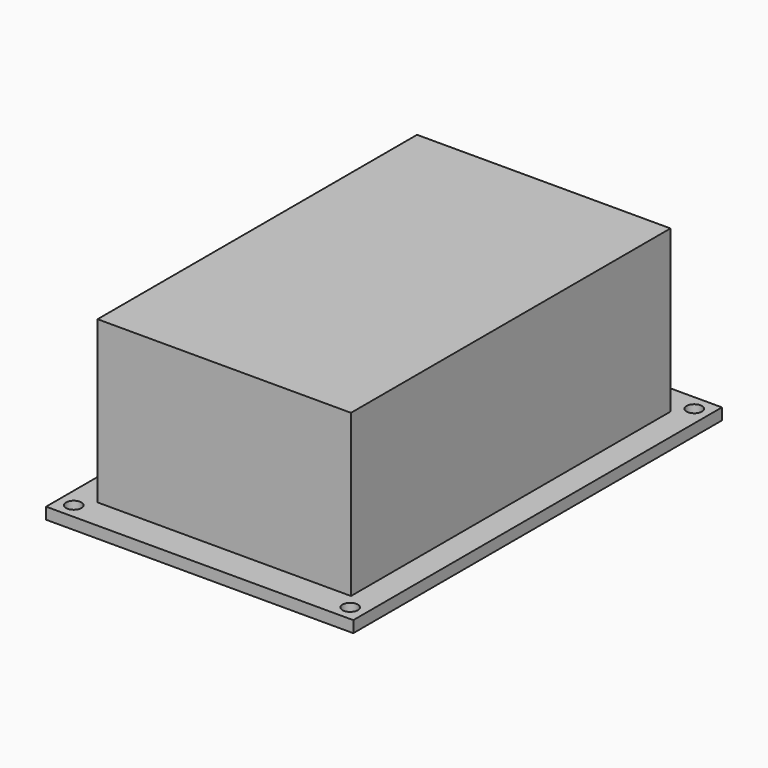
from build123d import *

# Parameters (mm, degrees)
SKETCH_W     = 40
SKETCH_H     = 60
PAD_DEPTH    = 1.5
SKETCH001_R  = 1
POCKET_DEPTH = 1.501
SKETCH002_W  = 33
SKETCH002_H  = 52
PAD001_DEPTH = 21


with BuildPart() as part:
    # Sketch → Pad (new body)
    with BuildSketch(Plane.XY):
        Rectangle(SKETCH_W, SKETCH_H)
    extrude(amount=PAD_DEPTH)

    # Sketch001 (on Face6 of Pad) → Pocket (cut, through all)
    with BuildSketch(Plane.XY.offset(1.5)):
        with Locations((-18, 28)):
            Circle(SKETCH001_R)
        with Locations((18, 28)):
            Circle(SKETCH001_R)
        with Locations((-18, -28)):
            Circle(SKETCH001_R)
        with Locations((18, -28)):
            Circle(SKETCH001_R)
    extrude(amount=-POCKET_DEPTH, mode=Mode.SUBTRACT)

    # Sketch002 (on Face5 of Pocket) → Pad001 (join)
    with BuildSketch(Plane.XY.offset(1.5)):
        Rectangle(SKETCH002_W, SKETCH002_H)
    extrude(amount=PAD001_DEPTH)


solid = part.part
